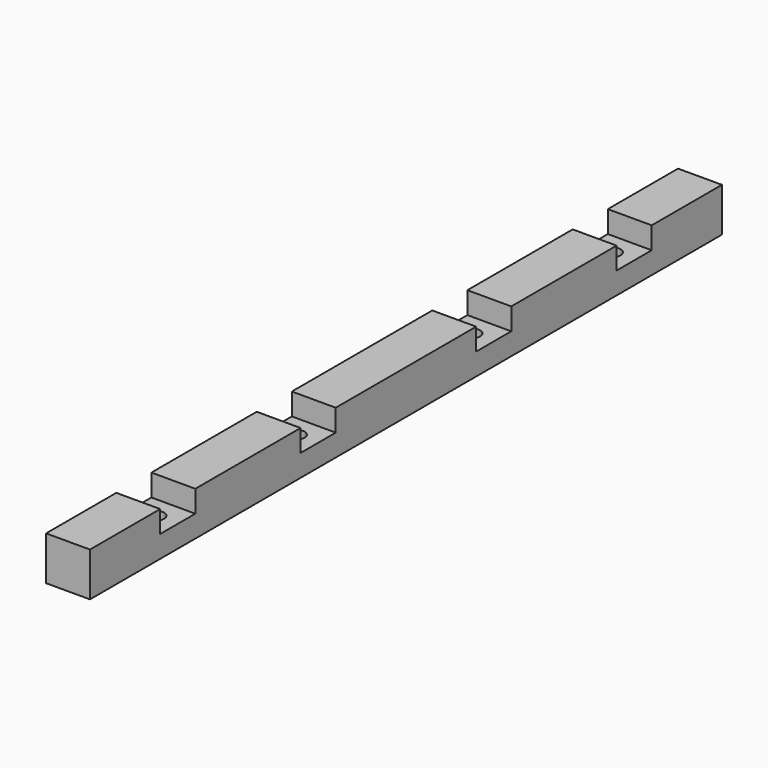
from build123d import *

# Parameters (mm, degrees)
F0_W     = 12.7
F0_H     = 228.6
F1_DEPTH = 12.7
F2_W     = 12.7
F2_H     = 6.35
F3_DEPTH = 12.701
F4_R     = 2.413
F5_DEPTH = 6.351


with BuildPart() as f1:
    # F0 (on Top) → F1 (new body)
    with BuildSketch(Plane.XY):
        with Locations((-6.35, 0)):
            Rectangle(F0_W, F0_H)
    extrude(amount=F1_DEPTH)

    # F2 (on face) → F3 (cut, through all)
    with BuildSketch(Plane.YZ):
        with Locations((82.55, 9.525)):
            Rectangle(F2_W, F2_H)
        with Locations((31.75, 9.525)):
            Rectangle(F2_W, F2_H)
        with Locations((-31.75, 9.525)):
            Rectangle(F2_W, F2_H)
        with Locations((-82.55, 9.525)):
            Rectangle(F2_W, F2_H)
    extrude(amount=-F3_DEPTH, mode=Mode.SUBTRACT)

    # F4 (on face) → F5 (cut, through all)
    with BuildSketch(Plane.XY.offset(6.35)):
        with Locations((-6.35, 82.55)):
            Circle(F4_R)
        with Locations((-6.35, 31.75)):
            Circle(F4_R)
        with Locations((-6.35, -31.75)):
            Circle(F4_R)
        with Locations((-6.35, -82.55)):
            Circle(F4_R)
    extrude(amount=-F5_DEPTH, mode=Mode.SUBTRACT)


solid = f1.part
